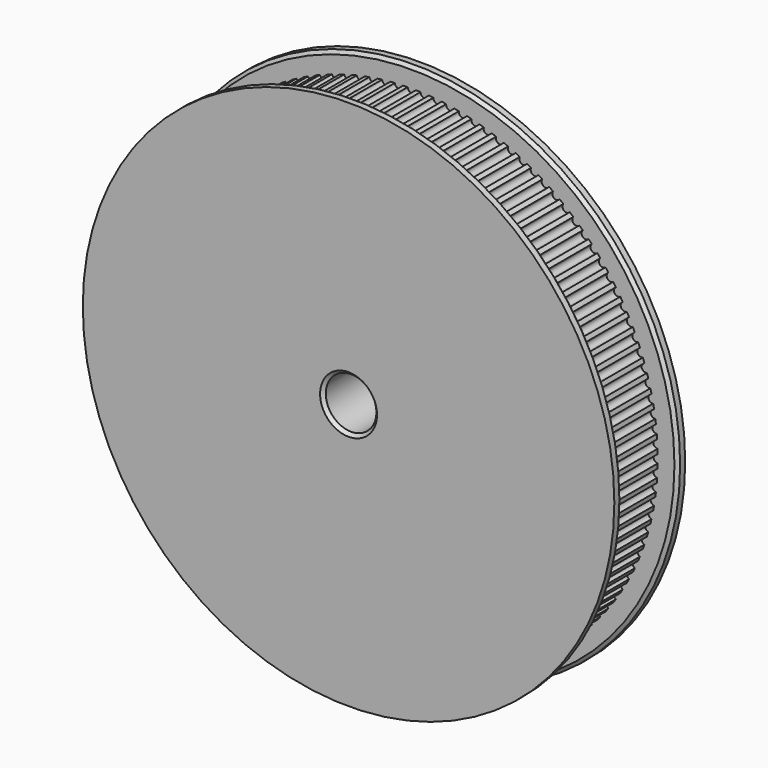
from build123d import *

# Parameters (mm, degrees)
F0_R      = 38.86
F1_DEPTH  = 5.5
F2_R      = 42
F3_DEPTH  = 1.5
F4_R      = 42
F5_DEPTH  = 1.5
F6_R      = 25
F7_DEPTH  = 11
F8_R      = 4
F9_DEPTH  = 25.001
F10_SIZE  = 0.5
F11_R     = 0.65
F12_DEPTH = 11


with BuildPart() as f1:
    # F0 (on Front) → F1 (new body, symmetric)
    with BuildSketch(Plane.XZ):
        Circle(F0_R)
    extrude(amount=F1_DEPTH, both=True)

    # F2 (on face) → F3 (join)
    with BuildSketch(Plane.XZ.offset(5.5)):
        Circle(F2_R)
    extrude(amount=F3_DEPTH)

    # F4 (on face) → F5 (join)
    with BuildSketch(Plane(origin=(0, 5.5, 0), x_dir=(-1, 0, 0), z_dir=(0, 1, 0))):
        Circle(F4_R)
    extrude(amount=F5_DEPTH)

    # F6 (on face) → F7 (join)
    with BuildSketch(Plane(origin=(0, 7, 0), x_dir=(-1, 0, 0), z_dir=(0, 1, 0))):
        Circle(F6_R)
    extrude(amount=F7_DEPTH)

    # F8 (on face) → F9 (cut, through all)
    with BuildSketch(Plane(origin=(0, 18, 0), x_dir=(-1, 0, 0), z_dir=(0, 1, 0))):
        Circle(F8_R)
    extrude(amount=-F9_DEPTH, mode=Mode.SUBTRACT)

    # F10
    f10_edges = [f1.edges().sort_by_distance(p)[0] for p in [
        (4, -7, 0),
        (4, 18, 0),
        (-42, -5.5, 0),
        (42, 5.5, 0),
        (25, 18, 0),
    ]]
    chamfer(f10_edges, length=F10_SIZE)

    # F11 (on face) → F12 (cut, through all)
    with BuildSketch(Plane.XZ.offset(-5.5)):
        with Locations((0, -38.86)):
            Circle(F11_R)
        with Locations((2.033775, -38.806744)):
            Circle(F11_R)
        with Locations((4.061976, -38.647121)):
            Circle(F11_R)
        with Locations((6.079043, -38.381569)):
            Circle(F11_R)
        with Locations((8.079448, -38.010816)):
            Circle(F11_R)
        with Locations((10.057708, -37.535878)):
            Circle(F11_R)
        with Locations((12.0084, -36.958056)):
            Circle(F11_R)
        with Locations((13.926179, -36.278935)):
            Circle(F11_R)
        with Locations((15.805786, -35.500376)):
            Circle(F11_R)
        with Locations((17.642071, -34.624514)):
            Circle(F11_R)
        with Locations((19.43, -33.653747)):
            Circle(F11_R)
        with Locations((21.164673, -32.590738)):
            Circle(F11_R)
        with Locations((22.841335, -31.4384)):
            Circle(F11_R)
        with Locations((24.45539, -30.199892)):
            Circle(F11_R)
        with Locations((26.002415, -28.878608)):
            Circle(F11_R)
        with Locations((27.47817, -27.47817)):
            Circle(F11_R)
        with Locations((28.878608, -26.002415)):
            Circle(F11_R)
        with Locations((30.199892, -24.45539)):
            Circle(F11_R)
        with Locations((31.4384, -22.841335)):
            Circle(F11_R)
        with Locations((32.590738, -21.164673)):
            Circle(F11_R)
        with Locations((33.653747, -19.43)):
            Circle(F11_R)
        with Locations((34.624514, -17.642071)):
            Circle(F11_R)
        with Locations((35.500376, -15.805786)):
            Circle(F11_R)
        with Locations((36.278935, -13.926179)):
            Circle(F11_R)
        with Locations((36.958056, -12.0084)):
            Circle(F11_R)
        with Locations((37.535878, -10.057708)):
            Circle(F11_R)
        with Locations((38.010816, -8.079448)):
            Circle(F11_R)
        with Locations((38.381569, -6.079043)):
            Circle(F11_R)
        with Locations((38.647121, -4.061976)):
            Circle(F11_R)
        with Locations((38.806744, -2.033775)):
            Circle(F11_R)
        with Locations((38.86, 0)):
            Circle(F11_R)
        with Locations((38.806744, 2.033775)):
            Circle(F11_R)
        with Locations((38.647121, 4.061976)):
            Circle(F11_R)
        with Locations((38.381569, 6.079043)):
            Circle(F11_R)
        with Locations((38.010816, 8.079448)):
            Circle(F11_R)
        with Locations((37.535878, 10.057708)):
            Circle(F11_R)
        with Locations((36.958056, 12.0084)):
            Circle(F11_R)
        with Locations((36.278935, 13.926179)):
            Circle(F11_R)
        with Locations((35.500376, 15.805786)):
            Circle(F11_R)
        with Locations((34.624514, 17.642071)):
            Circle(F11_R)
        with Locations((33.653747, 19.43)):
            Circle(F11_R)
        with Locations((32.590738, 21.164673)):
            Circle(F11_R)
        with Locations((31.4384, 22.841335)):
            Circle(F11_R)
        with Locations((30.199892, 24.45539)):
            Circle(F11_R)
        with Locations((28.878608, 26.002415)):
            Circle(F11_R)
        with Locations((27.47817, 27.47817)):
            Circle(F11_R)
        with Locations((26.002415, 28.878608)):
            Circle(F11_R)
        with Locations((24.45539, 30.199892)):
            Circle(F11_R)
        with Locations((22.841335, 31.4384)):
            Circle(F11_R)
        with Locations((21.164673, 32.590738)):
            Circle(F11_R)
        with Locations((19.43, 33.653747)):
            Circle(F11_R)
        with Locations((17.642071, 34.624514)):
            Circle(F11_R)
        with Locations((15.805786, 35.500376)):
            Circle(F11_R)
        with Locations((13.926179, 36.278935)):
            Circle(F11_R)
        with Locations((12.0084, 36.958056)):
            Circle(F11_R)
        with Locations((10.057708, 37.535878)):
            Circle(F11_R)
        with Locations((8.079448, 38.010816)):
            Circle(F11_R)
        with Locations((6.079043, 38.381569)):
            Circle(F11_R)
        with Locations((4.061976, 38.647121)):
            Circle(F11_R)
        with Locations((2.033775, 38.806744)):
            Circle(F11_R)
        with Locations((0, 38.86)):
            Circle(F11_R)
        with Locations((-2.033775, 38.806744)):
            Circle(F11_R)
        with Locations((-4.061976, 38.647121)):
            Circle(F11_R)
        with Locations((-6.079043, 38.381569)):
            Circle(F11_R)
        with Locations((-8.079448, 38.010816)):
            Circle(F11_R)
        with Locations((-10.057708, 37.535878)):
            Circle(F11_R)
        with Locations((-12.0084, 36.958056)):
            Circle(F11_R)
        with Locations((-13.926179, 36.278935)):
            Circle(F11_R)
        with Locations((-15.805786, 35.500376)):
            Circle(F11_R)
        with Locations((-17.642071, 34.624514)):
            Circle(F11_R)
        with Locations((-19.43, 33.653747)):
            Circle(F11_R)
        with Locations((-21.164673, 32.590738)):
            Circle(F11_R)
        with Locations((-22.841335, 31.4384)):
            Circle(F11_R)
        with Locations((-24.45539, 30.199892)):
            Circle(F11_R)
        with Locations((-26.002415, 28.878608)):
            Circle(F11_R)
        with Locations((-27.47817, 27.47817)):
            Circle(F11_R)
        with Locations((-28.878608, 26.002415)):
            Circle(F11_R)
        with Locations((-30.199892, 24.45539)):
            Circle(F11_R)
        with Locations((-31.4384, 22.841335)):
            Circle(F11_R)
        with Locations((-32.590738, 21.164673)):
            Circle(F11_R)
        with Locations((-33.653747, 19.43)):
            Circle(F11_R)
        with Locations((-34.624514, 17.642071)):
            Circle(F11_R)
        with Locations((-35.500376, 15.805786)):
            Circle(F11_R)
        with Locations((-36.278935, 13.926179)):
            Circle(F11_R)
        with Locations((-36.958056, 12.0084)):
            Circle(F11_R)
        with Locations((-37.535878, 10.057708)):
            Circle(F11_R)
        with Locations((-38.010816, 8.079448)):
            Circle(F11_R)
        with Locations((-38.381569, 6.079043)):
            Circle(F11_R)
        with Locations((-38.647121, 4.061976)):
            Circle(F11_R)
        with Locations((-38.806744, 2.033775)):
            Circle(F11_R)
        with Locations((-38.86, 0)):
            Circle(F11_R)
        with Locations((-38.806744, -2.033775)):
            Circle(F11_R)
        with Locations((-38.647121, -4.061976)):
            Circle(F11_R)
        with Locations((-38.381569, -6.079043)):
            Circle(F11_R)
        with Locations((-38.010816, -8.079448)):
            Circle(F11_R)
        with Locations((-37.535878, -10.057708)):
            Circle(F11_R)
        with Locations((-36.958056, -12.0084)):
            Circle(F11_R)
        with Locations((-36.278935, -13.926179)):
            Circle(F11_R)
        with Locations((-35.500376, -15.805786)):
            Circle(F11_R)
        with Locations((-34.624514, -17.642071)):
            Circle(F11_R)
        with Locations((-33.653747, -19.43)):
            Circle(F11_R)
        with Locations((-32.590738, -21.164673)):
            Circle(F11_R)
        with Locations((-31.4384, -22.841335)):
            Circle(F11_R)
        with Locations((-30.199892, -24.45539)):
            Circle(F11_R)
        with Locations((-28.878608, -26.002415)):
            Circle(F11_R)
        with Locations((-27.47817, -27.47817)):
            Circle(F11_R)
        with Locations((-26.002415, -28.878608)):
            Circle(F11_R)
        with Locations((-24.45539, -30.199892)):
            Circle(F11_R)
        with Locations((-22.841335, -31.4384)):
            Circle(F11_R)
        with Locations((-21.164673, -32.590738)):
            Circle(F11_R)
        with Locations((-19.43, -33.653747)):
            Circle(F11_R)
        with Locations((-17.642071, -34.624514)):
            Circle(F11_R)
        with Locations((-15.805786, -35.500376)):
            Circle(F11_R)
        with Locations((-13.926179, -36.278935)):
            Circle(F11_R)
        with Locations((-12.0084, -36.958056)):
            Circle(F11_R)
        with Locations((-10.057708, -37.535878)):
            Circle(F11_R)
        with Locations((-8.079448, -38.010816)):
            Circle(F11_R)
        with Locations((-6.079043, -38.381569)):
            Circle(F11_R)
        with Locations((-4.061976, -38.647121)):
            Circle(F11_R)
        with Locations((-2.033775, -38.806744)):
            Circle(F11_R)
    extrude(amount=F12_DEPTH, mode=Mode.SUBTRACT)


solid = f1.part
